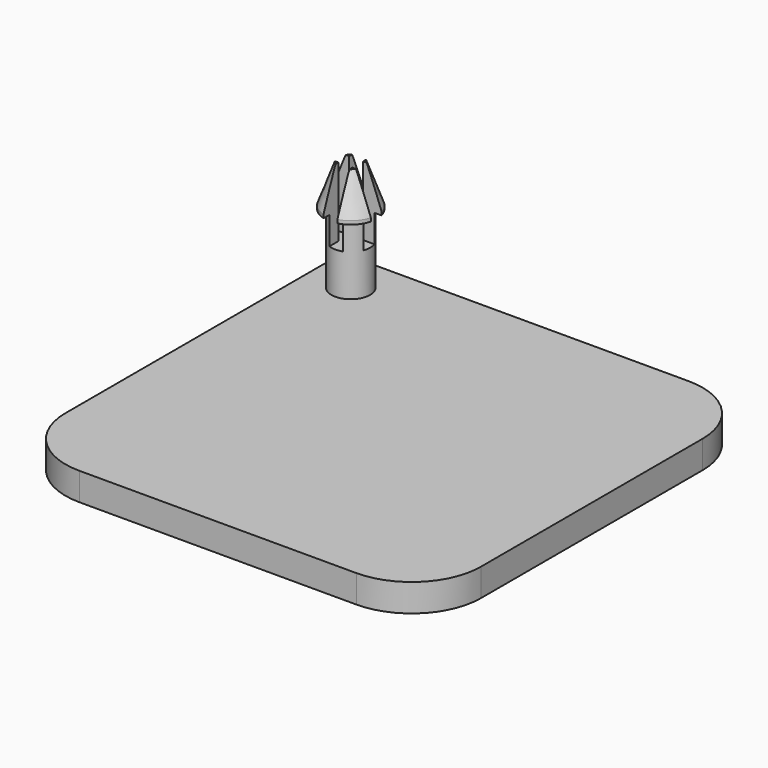
from build123d import *

# Parameters (mm, degrees)
F0_W       = 30
F0_H       = 30
F1_DEPTH   = 2
F2_R       = 5
F3_R       = 1.4
F4_DEPTH   = 5
F5_R       = 1.9
F6_DEPTH   = 3
F7_W       = 1
F7_H       = 1.4164627314
F7_H_2     = 0.9670745373
F8_DEPTH   = 5
F9_SIZE2   = 1
F9_SIZE    = 2.7474774195
F9_2_SIZE2 = 1
F9_2_SIZE  = 2.7474774195
F9_3_SIZE2 = 1
F9_3_SIZE  = 2.7474774195
F9_4_SIZE2 = 1
F9_4_SIZE  = 2.7474774195


with BuildPart() as f1:
    # F0 (on Top) → F1 (new body)
    with BuildSketch(Plane.XY):
        Rectangle(F0_W, F0_H)
    extrude(amount=F1_DEPTH)

    # F2
    f2_edges = [f1.edges().sort_by_distance(p)[0] for p in [
        (-15, -15, 1),
        (15, -15, 1),
        (15, 15, 1),
    ]]
    fillet(f2_edges, radius=F2_R)

    # F3 (on face) → F4 (join)
    with BuildSketch(Plane.XY.offset(2)):
        with Locations((-12, 12)):
            Circle(F3_R)
    extrude(amount=F4_DEPTH)

    # F5 (on face) → F6 (join)
    with BuildSketch(Plane.XY.offset(7)):
        with Locations((-12, 12)):
            Circle(F5_R)
    extrude(amount=F6_DEPTH)

    # F7 (on face) → F8 (cut)
    with BuildSketch(Plane.XY.offset(10)):
        Polygon((-11.5, 11.5164627314), (-9.9080650799, 11.5164627314), (-10.1625583792, 12.4835372686), (-11.5, 12.4835372686), align=None)
        with Locations((-12, 10.8082313657)):
            Rectangle(F7_W, F7_H)
        with Locations((-12, 12)):
            Rectangle(F7_W, F7_H_2)
        Polygon((-13.8374416208, 11.5164627314), (-12.5, 11.5164627314), (-12.5, 12.4835372686), (-14.0919349201, 12.4835372686), align=None)
        with Locations((-12, 13.1917686343)):
            Rectangle(F7_W, F7_H)
    extrude(amount=-F8_DEPTH, mode=Mode.SUBTRACT)

    # F9
    f9_edges = [f1.edges().sort_by_distance(p)[0] for p in [
        (-10.650485, 13.337464, 10),
    ]]
    f9_side = f1.faces().sort_by_distance((-10.650485, 13.337464, 8.5))[0]
    chamfer(f9_edges, length=F9_SIZE, length2=F9_SIZE2, reference=f9_side)

    # F9#2
    f9_2_edges = [f1.edges().sort_by_distance(p)[0] for p in [
        (-10.650485, 10.662536, 10),
    ]]
    f9_2_side = f1.faces().sort_by_distance((-10.650485, 10.662536, 8.5))[0]
    chamfer(f9_2_edges, length=F9_2_SIZE, length2=F9_2_SIZE2, reference=f9_2_side)

    # F9#3
    f9_3_edges = [f1.edges().sort_by_distance(p)[0] for p in [
        (-13.349515, 13.337464, 10),
    ]]
    f9_3_side = f1.faces().sort_by_distance((-13.349515, 13.337464, 8.5))[0]
    chamfer(f9_3_edges, length=F9_3_SIZE, length2=F9_3_SIZE2, reference=f9_3_side)

    # F9#4
    f9_4_edges = [f1.edges().sort_by_distance(p)[0] for p in [
        (-13.349515, 10.662536, 10),
    ]]
    f9_4_side = f1.faces().sort_by_distance((-13.349515, 10.662536, 8.5))[0]
    chamfer(f9_4_edges, length=F9_4_SIZE, length2=F9_4_SIZE2, reference=f9_4_side)


solid = f1.part
